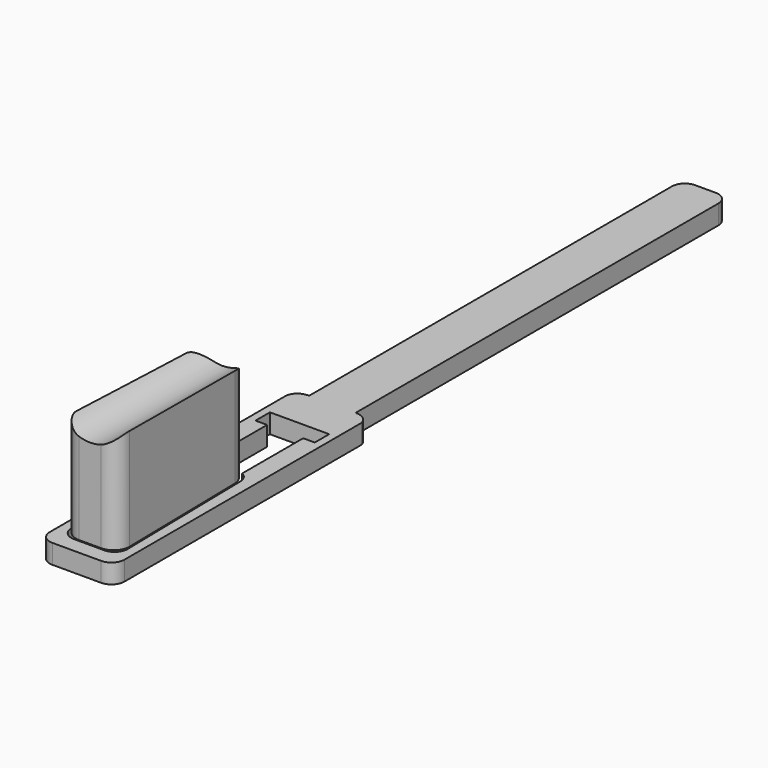
from build123d import *

# Parameters (mm, degrees)
F1_DEPTH = 9.525
F5_DEPTH = 50.8
F6_R     = 17.1831
F7_DEPTH = 83.0861591544


with BuildPart() as f1:
    # F0 (on Top) → F1 (new body)
    with BuildSketch(Plane.XY):
        with BuildLine():
            Line((-18.415, 54.61), (-18.415, 0))
            Line((-18.415, 0), (-18.415, -85.09))
            ThreePointArc((-18.415, -85.09), (-16.5551280605, -89.5801280605), (-12.065, -91.44))
            Line((-12.065, -91.44), (12.065, -91.44))
            ThreePointArc((12.065, -91.44), (16.5551280605, -89.5801280605), (18.415, -85.09))
            Line((18.415, -85.09), (18.415, 0))
            Line((18.415, 0), (18.415, 54.61))
            ThreePointArc((18.415, 54.61), (16.5551280605, 59.1001280605), (12.065, 60.96))
            Line((12.065, 60.96), (11.430000045, 60.96))
            Line((11.430000045, 60.96), (4.5e-08, 60.96))
            Line((4.5e-08, 60.96), (-11.429999955, 60.96))
            Line((-11.429999955, 60.96), (-12.065, 60.96))
            ThreePointArc((-12.065, 60.96), (-16.5551280605, 59.1001280605), (-18.415, 54.61))
        make_face()
        with BuildLine():
            Line((7.4988280809, -83.82), (-7.4983640712, -83.82))
            ThreePointArc((-7.4983640712, -83.82), (-12.0309677803, -81.9173441405), (-13.8474531146, -77.349524449))
            Line((-13.8474531146, -77.349524449), (-12.5004878108, -6.2297564123))
            ThreePointArc((-12.5004878108, -6.2297564123), (-11.4910624118, -2.9130067133), (-8.89, -0.6207932563))
            Line((-8.89, -0.6207932563), (-8.89, 0))
            Line((-8.89, 0), (-8.89, 36.957))
            Line((-8.89, 36.957), (-14.605, 36.957))
            Line((-14.605, 36.957), (-14.605, 45.847))
            Line((-14.605, 45.847), (14.605, 45.847))
            Line((14.605, 45.847), (14.605, 36.957))
            Line((14.605, 36.957), (8.89, 36.957))
            Line((8.89, 36.957), (8.89, 0))
            Line((8.89, 0), (8.89, -0.6207932563))
            ThreePointArc((8.89, -0.6207932563), (11.4910624118, -2.9130067133), (12.5004878108, -6.2297564123))
            Line((12.5004878108, -6.2297564123), (13.8474619011, -77.3499883755))
            ThreePointArc((13.8474619011, -77.3499883755), (12.031106807, -81.917480559), (7.4988280809, -83.82))
        make_face(mode=Mode.SUBTRACT)
        with BuildLine():
            Line((-18.415, 60.96), (-18.415, 54.61))
            ThreePointArc((-18.415, 54.61), (-16.5551280605, 59.1001280605), (-12.065, 60.96))
            Line((-12.065, 60.96), (-11.429999955, 60.96))
            Line((-11.429999955, 60.96), (-11.429999955, 66.04))
            Line((-11.429999955, 66.04), (-12.065, 66.04))
            ThreePointArc((-12.065, 66.04), (-16.1309838908, 64.6137298635), (-18.415, 60.96))
        make_face()
        Polygon((-11.429999955, 66.04), (-11.429999955, 60.96), (4.5e-08, 60.96), (11.430000045, 60.96), (11.430000045, 66.04), align=None)
        with BuildLine():
            Line((-11.429999955, 289.56), (-11.429999955, 66.04))
            Line((-11.429999955, 66.04), (11.430000045, 66.04))
            Line((11.430000045, 66.04), (11.430000045, 289.56))
            ThreePointArc((11.430000045, 289.56), (9.5701281055, 294.0501280605), (5.080000045, 295.91))
            Line((5.080000045, 295.91), (-5.079999955, 295.91))
            ThreePointArc((-5.079999955, 295.91), (-9.5701280155, 294.0501280605), (-11.429999955, 289.56))
        make_face()
        with BuildLine():
            Line((12.065, 66.04), (11.430000045, 66.04))
            Line((11.430000045, 66.04), (11.430000045, 60.96))
            Line((11.430000045, 60.96), (12.065, 60.96))
            ThreePointArc((12.065, 60.96), (16.5551280605, 59.1001280605), (18.415, 54.61))
            Line((18.415, 54.61), (18.415, 60.96))
            ThreePointArc((18.415, 60.96), (16.1309838908, 64.6137298635), (12.065, 66.04))
        make_face()
    extrude(amount=F1_DEPTH)


with BuildPart() as f1_1:
    # F2: moved
    add(f1.part.moved(Location((0, -113.284, 0))))


with BuildPart() as f5:
    # F4 (on face) → F5 (new body)
    with BuildSketch(Plane.XY.offset(9.525)):
        with BuildLine():
            ThreePointArc((-4.3209160585, -114.7901138771), (-9.6521751153, -117.0577685899), (-11.9198298282, -122.3890276468))
            Line((-11.9198298282, -122.3890276468), (-13.1733577671, -188.575302823))
            ThreePointArc((-13.1733577671, -188.575302823), (-10.9573251059, -194.1478430667), (-5.4277468204, -196.469))
            Line((-5.4277468204, -196.469), (5.4277468204, -196.469))
            ThreePointArc((5.4277468204, -196.469), (10.9573251059, -194.1478430667), (13.1733577671, -188.575302823))
            Line((13.1733577671, -188.575302823), (11.916836312, -122.2309699906))
            ThreePointArc((11.916836312, -122.2309699906), (9.5444688215, -116.7969625741), (4.0245281882, -114.6320562209))
            Line((4.0245281882, -114.6320562209), (-4.3209160585, -114.7901138771))
        make_face()
    extrude(amount=F5_DEPTH)

    # F6 (on face) → F7 (cut, up to face)
    with BuildSketch(Plane.XZ.offset(196.469)):
        with Locations((0, 70.7672685385)):
            Circle(F6_R)
    extrude(amount=-F7_DEPTH, mode=Mode.SUBTRACT)


solid = Compound([f1_1.part, f5.part])
